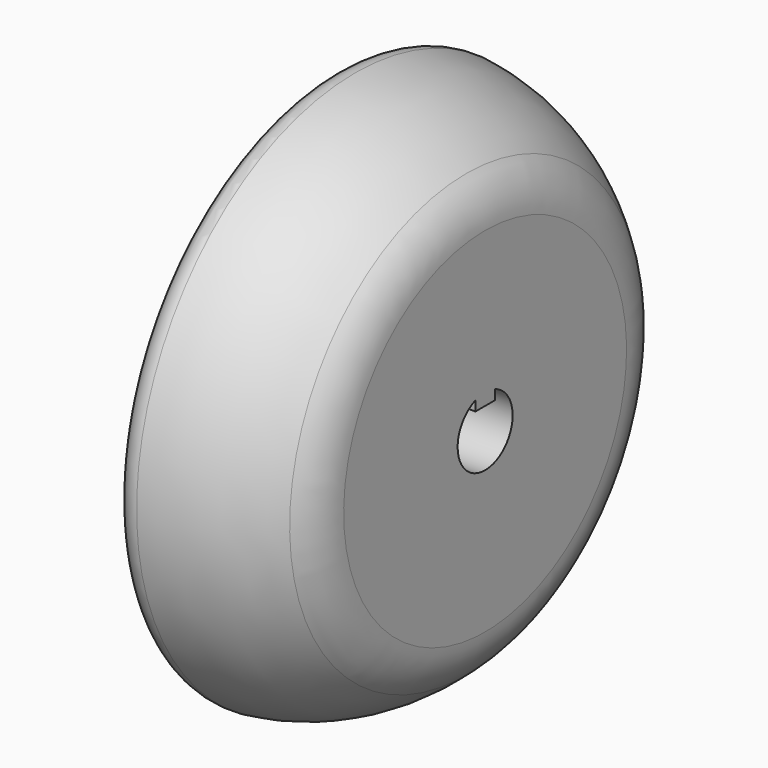
from build123d import *

# Parameters (mm, degrees)
F3_D     = 6.7564
F3_DEPTH = 5.08
F3_TIP   = 2.0298273432
F7_DEPTH = 0.5
F7_TAPER = 3


with BuildPart() as f1:
    # F0 (on Front) → F1 (revolve)
    with BuildSketch(Plane.XZ):
        with BuildLine():
            Line((-10.7497593308, 0), (0, 0))
            Line((0, 0), (0, 17.3808315196))
            ThreePointArc((0, 17.3808315196), (-0.480802734, 19.7342251413), (-1.8461538462, 21.7104460672))
            ThreePointArc((-1.8461538462, 21.7104460672), (-6.884789629, 25.1797369198), (-12.7647058824, 26.8680539592))
            ThreePointArc((-12.7647058824, 26.8680539592), (-14.3284223283, 26.3770330193), (-15, 24.8819430161))
            ThreePointArc((-15, 24.8819430161), (-14.1991722099, 22.3960149141), (-13.4916369321, 19.8819430161))
            Line((-13.4916369321, 19.8819430161), (-12.9749619928, 19.8819430161))
            ThreePointArc((-12.9749619928, 19.8819430161), (-12.3770619061, 17.3919785968), (-11.8699833059, 14.8819430161))
            Line((-11.8699833059, 14.8819430161), (-12.3783641122, 14.8819430161))
            ThreePointArc((-12.3783641122, 14.8819430161), (-11.9646485976, 12.3885980327), (-11.6412133462, 9.8819430161))
            ThreePointArc((-11.6412133462, 9.8819430161), (-11.2708718222, 4.9478890349), (-11.25, 0))
            Line((-11.25, 0), (-10.7497593308, 0))
        make_face()
        with BuildLine():
            Line((-11.6412133462, 0), (-11.25, 0))
            ThreePointArc((-11.25, 0), (-11.2708718222, 4.9478890349), (-11.6412133462, 9.8819430161))
            Line((-11.6412133462, 9.8819430161), (-11.6412133462, 0))
        make_face()
    revolve(axis=Axis((-7.5, 0, 0), (-1, 0, 0)))

    # F3
    with Locations(Plane.YZ):
        with Locations((0, 0)):
            Hole(F3_D / 2, depth=F3_DEPTH)
            with Locations((0, 0, -(F3_DEPTH + F3_TIP / 2))):  # 118° drill point
                Cone(0, F3_D / 2, F3_TIP, mode=Mode.SUBTRACT)

    # F4 (on face) → F5 (join, up to the next surface of F1)
    with BuildSketch(Plane.YZ):
        with BuildLine():
            Line((-1.190625, 2.187575), (1.190625, 2.187575))
            Line((1.190625, 2.187575), (1.190625, 3.1614312185))
            ThreePointArc((1.190625, 3.1614312185), (0, 3.3782), (-1.190625, 3.1614312185))
            Line((-1.190625, 3.1614312185), (-1.190625, 2.187575))
        make_face()
    extrude(until=Until.NEXT, dir=(-1, 0, 0))

    # F6 (on face) → F7 (cut)
    with BuildSketch(Plane(origin=(-11.6412133462, 0, 0), x_dir=(0, -1, 0), z_dir=(-1, 0, 0))):
        with BuildLine():
            ThreePointArc((9.3982862992, 3.0536883294), (5.8084603689, 7.9946598375), (0, 9.8819430161))
            Line((0, 9.8819430161), (2.2186344386, 3.0536883294))
            Line((2.2186344386, 3.0536883294), (9.3982862992, 3.0536883294))
        make_face()
        with BuildLine():
            Line((-3.5898259303, -1.1664051508), (-9.3982862992, 3.0536883294))
            ThreePointArc((-9.3982862992, 3.0536883294), (-9.3982862992, -3.0536883294), (-5.8084603689, -7.9946598375))
            Line((-5.8084603689, -7.9946598375), (-3.5898259303, -1.1664051508))
        make_face()
        with BuildLine():
            Line((0, -3.7745663573), (-5.8084603689, -7.9946598375))
            ThreePointArc((-5.8084603689, -7.9946598375), (0, -9.8819430161), (5.8084603689, -7.9946598375))
            Line((5.8084603689, -7.9946598375), (0, -3.7745663573))
        make_face()
        with BuildLine():
            ThreePointArc((9.8819430161, 0), (9.7602798995, 1.5458764693), (9.3982862992, 3.0536883294))
            Line((9.3982862992, 3.0536883294), (3.5898259303, -1.1664051508))
            Line((3.5898259303, -1.1664051508), (5.8084603689, -7.9946598375))
            ThreePointArc((5.8084603689, -7.9946598375), (8.804875699, -4.4863082483), (9.8819430161, 0))
        make_face()
        with BuildLine():
            Line((-2.2186344386, 3.0536883294), (0, 9.8819430161))
            ThreePointArc((0, 9.8819430161), (-5.8084603689, 7.9946598375), (-9.3982862992, 3.0536883294))
            Line((-9.3982862992, 3.0536883294), (-2.2186344386, 3.0536883294))
        make_face()
    extrude(amount=-F7_DEPTH, taper=F7_TAPER, mode=Mode.SUBTRACT)


solid = f1.part
